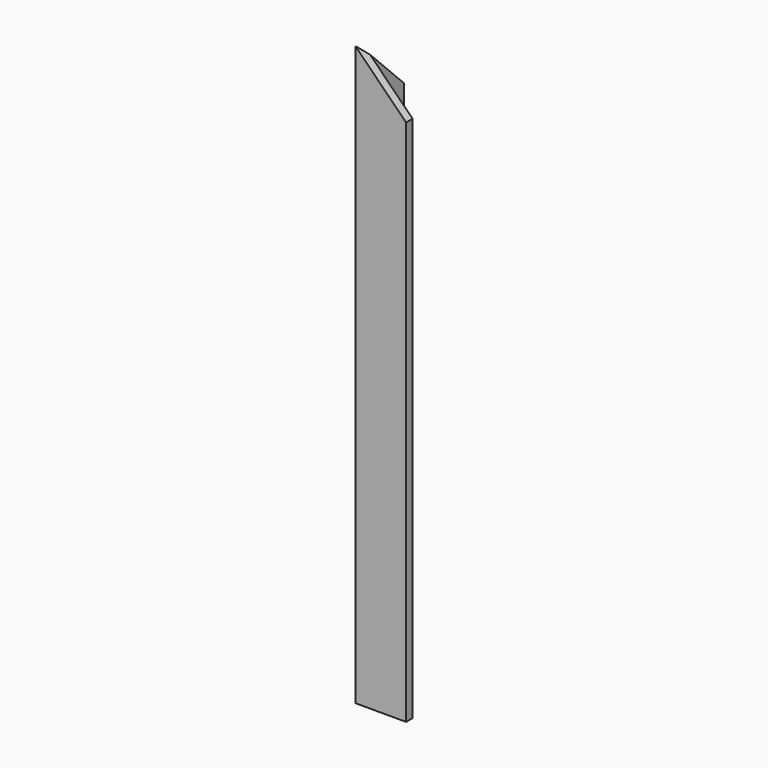
from build123d import *

# Parameters (mm, degrees)
F1_DEPTH = 570
F3_DEPTH = 8
F5_DEPTH = 8


with BuildPart() as f1:
    # F0 (on Top) → F1 (new body)
    with BuildSketch(Plane.XY):
        Polygon((0, 50), (0, 0), (50, 0), (50, 8), (8, 8), (8, 50), align=None)
    extrude(amount=F1_DEPTH)

    # F2 (on face) → F3 (cut, through all)
    with BuildSketch(Plane.XZ):
        Polygon((50, 570), (0, 570), (50, 520), align=None)
    extrude(amount=-F3_DEPTH, mode=Mode.SUBTRACT)

    # F4 (on face) → F5 (cut, through all)
    with BuildSketch(Plane(origin=(0, 0, 0), x_dir=(0, -1, 0), z_dir=(-1, 0, 0))):
        Polygon((-50, 520), (0, 570), (-8, 570), (-50, 570), align=None)
    extrude(amount=-F5_DEPTH, mode=Mode.SUBTRACT)


solid = f1.part
